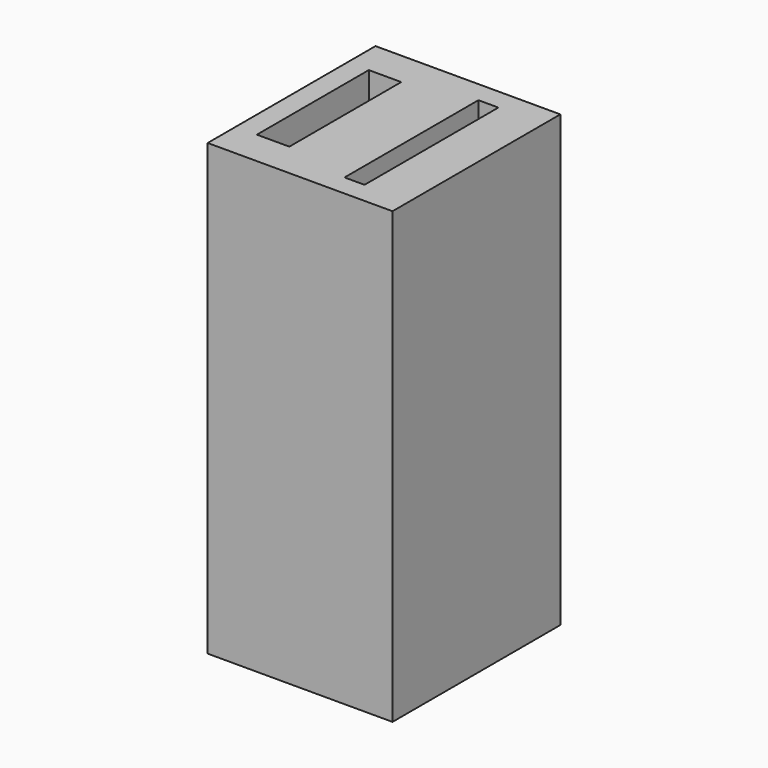
from build123d import *

# Parameters (mm, degrees)
F0_W     = 3.25
F0_H     = 14
F1_DEPTH = 10
F0_W_2   = 11
F0_H_2   = 21
F0_W_3   = 2
F0_H_3   = 16.75
F0_W_4   = 7.5
F2_DEPTH = 45


with BuildPart() as f1:
    # F0 (on Top) → F1 (new body)
    with BuildSketch(Plane.XY):
        with Locations((-14.589002, -0.319774)):
            Rectangle(F0_W, F0_H)
    extrude(amount=F1_DEPTH)


with BuildPart() as f2:
    # F0 (on Top) → F2 (new body)
    with BuildSketch(Plane.XY):
        with Locations((-5.339002, -0.319774)):
            Rectangle(F0_W_2, F0_H_2)
        with Locations((-5.339002, -0.319774)):
            Rectangle(F0_W_3, F0_H_3, mode=Mode.SUBTRACT)
        with Locations((-14.589002, -0.319774)):
            Rectangle(F0_W_4, F0_H_2)
        with Locations((-14.589002, -0.319774)):
            Rectangle(F0_W, F0_H, mode=Mode.SUBTRACT)
    extrude(amount=F2_DEPTH)


solid = Compound([f1.part, f2.part])
